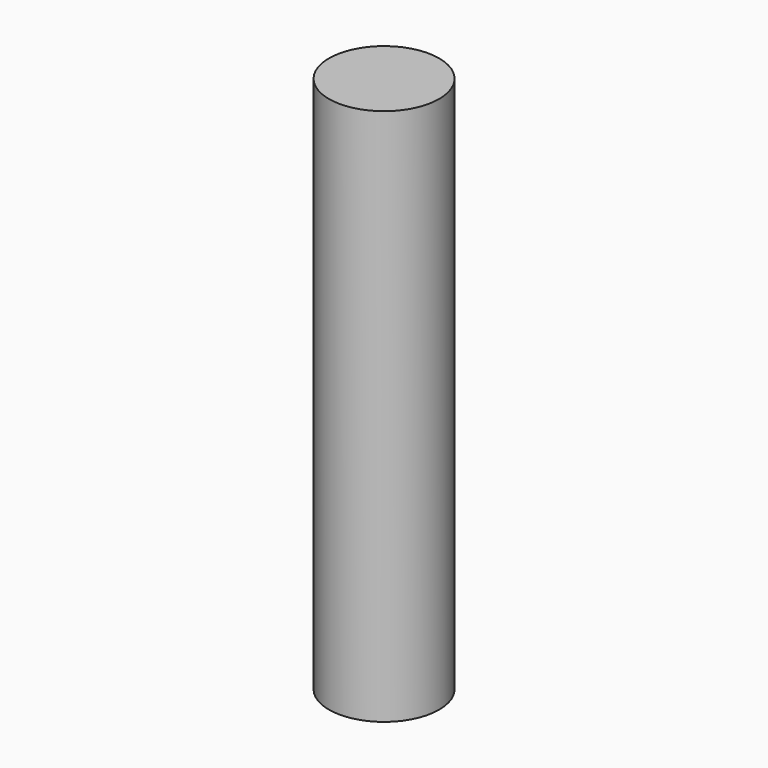
from build123d import *

# Parameters (mm, degrees)
CYLINDER_R     = 1.5367
CYLINDER_DEPTH = 15


with BuildPart() as part:
    # Cylinder → Cylinder (new body)
    with BuildSketch(Plane.XY.offset(-2.5)):
        Circle(CYLINDER_R)
    extrude(amount=CYLINDER_DEPTH)


solid = part.part
